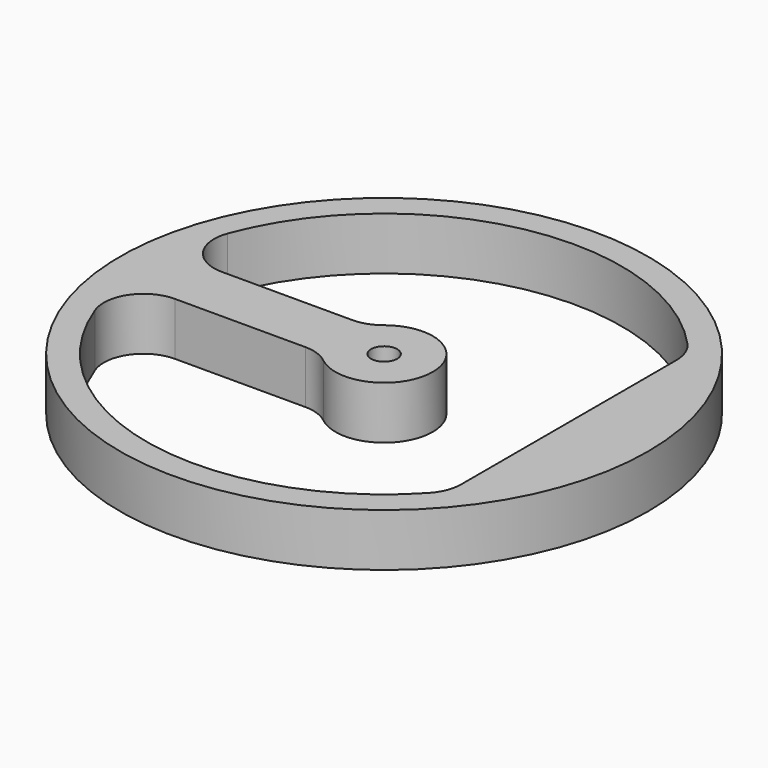
from build123d import *

# Parameters (mm, degrees)
F0_R     = 31.75
F0_R_2   = 1.5748
F1_DEPTH = 6.35


with BuildPart() as f1:
    # F0 (on Top) → F1 (new body)
    with BuildSketch(Plane.XY):
        Circle(F0_R)
        with BuildLine():
            ThreePointArc((20.955, -19.427264), (-5.567411, -28.027389), (-26.789215, -9.943267))
            ThreePointArc((-26.789215, -9.943267), (-26.234197, -5.566779), (-22.324346, -3.523556))
            Line((-22.324346, -3.523556), (-6.638238, -3.523556))
            ThreePointArc((-6.638238, -3.523556), (-5.060266, -3.792571), (-3.66056, -4.569225))
            ThreePointArc((-3.66056, -4.569225), (5.8547, 0), (-3.66056, 4.569225))
            ThreePointArc((-3.66056, 4.569225), (-5.060266, 3.792571), (-6.638238, 3.523556))
            Line((-6.638238, 3.523556), (-22.324346, 3.523556))
            ThreePointArc((-22.324346, 3.523556), (-26.234197, 5.566779), (-26.789215, 9.943267))
            ThreePointArc((-26.789215, 9.943267), (-5.567411, 28.027389), (20.955, 19.427264))
            ThreePointArc((20.955, 19.427264), (21.896146, 17.928406), (22.225, 16.189387))
            Line((22.225, 16.189387), (22.225, 0))
            Line((22.225, 0), (22.225, -16.189387))
            ThreePointArc((22.225, -16.189387), (21.896146, -17.928406), (20.955, -19.427264))
        make_face(mode=Mode.SUBTRACT)
        Circle(F0_R_2, mode=Mode.SUBTRACT)
    extrude(amount=F1_DEPTH)


solid = f1.part
